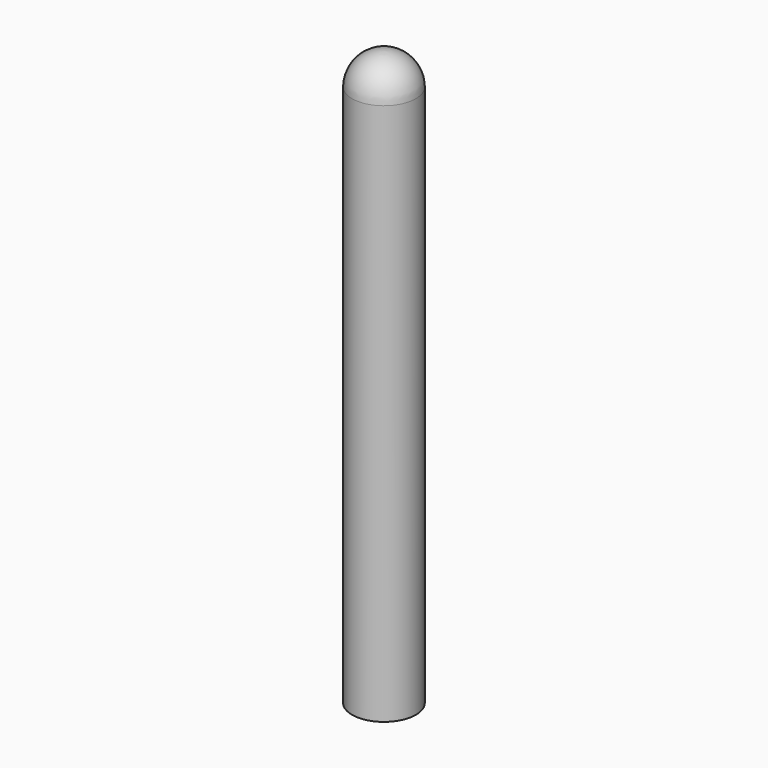
from build123d import *


with BuildPart() as f1:
    # F0 (on Front) → F1 (revolve)
    with BuildSketch(Plane.XZ):
        with BuildLine():
            Line((0, 0), (0, 45))
            ThreePointArc((0, 45), (-1.767767, 44.267767), (-2.5, 42.5))
            Line((-2.5, 42.5), (-2.5, 0))
            Line((-2.5, 0), (0, 0))
        make_face()
    revolve(axis=Axis((0, 0, 22.5), (0, 0, -1)))


solid = f1.part
